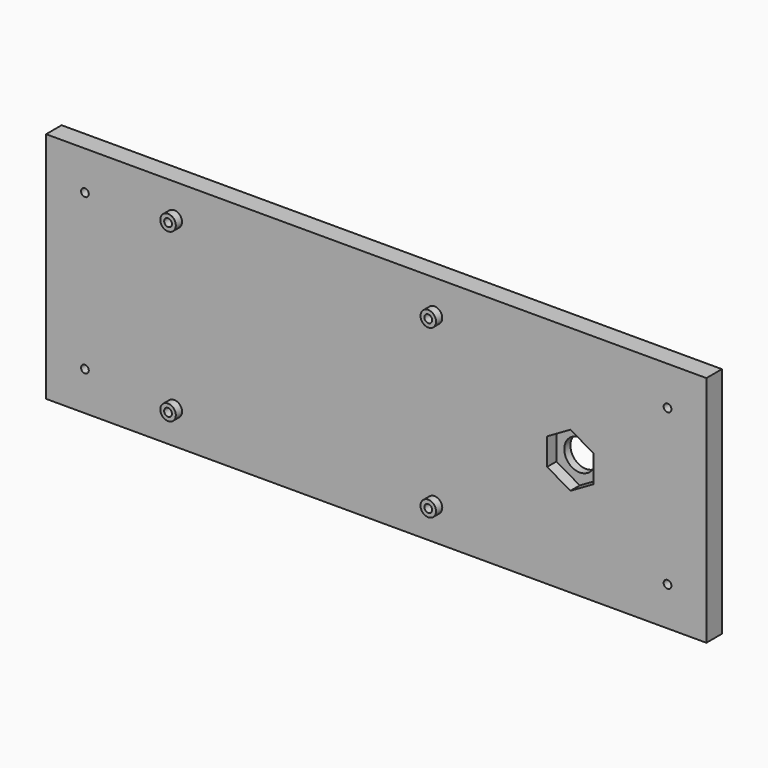
from build123d import *

# Parameters (mm, degrees)
F0_R      = 1
F0_R_2    = 2
F0_R_3    = 4
F1_DEPTH  = 5
F2_DEPTH  = 7
F3_DEPTH  = 6.604
F4_R      = 1
F5_DEPTH  = 5
F6_R      = 1
F7_DEPTH  = 5
F8_R      = 1
F9_DEPTH  = 5
F10_R     = 1
F11_DEPTH = 5
F13_DEPTH = 3


with BuildPart() as f1:
    # F0 (on Front) → F1 (new body)
    with BuildSketch(Plane.XZ):
        Polygon((-75.6474129446, -7.9146586359), (-75.6474129446, -37.9146586359), (94.3547870554, -37.9146586359), (94.3547870554, 22.0853413641), (59.3547870554, 22.0853413641), (24.3525870554, 22.0853413641), (-75.6474129446, 22.0853413641), align=None)
        with Locations((-65.6474129446, -27.9146586359)):
            Circle(F0_R, mode=Mode.SUBTRACT)
        with Locations((-42.6474129446, -29.4146586359)):
            Circle(F0_R_2, mode=Mode.SUBTRACT)
        with Locations((24.3525870554, -29.4146586359)):
            Circle(F0_R_2, mode=Mode.SUBTRACT)
        with Locations((84.3547870554, -27.9146586359)):
            Circle(F0_R, mode=Mode.SUBTRACT)
        Polygon((59.3547870554, -0.9864554056), (65.3547870554, -4.4505570207), (65.3547870554, -11.378760251), (59.3547870554, -14.8428618661), (53.3547870554, -11.378760251), (53.3547870554, -4.4505570207), align=None, mode=Mode.SUBTRACT)
        with Locations((-65.6474129446, 12.0853413641)):
            Circle(F0_R, mode=Mode.SUBTRACT)
        with Locations((-42.6474129446, 13.5853413641)):
            Circle(F0_R_2, mode=Mode.SUBTRACT)
        with Locations((24.3525870554, 13.5853413641)):
            Circle(F0_R_2, mode=Mode.SUBTRACT)
        with Locations((84.3547870554, 12.0853413641)):
            Circle(F0_R, mode=Mode.SUBTRACT)
        Polygon((65.3547870554, -11.378760251), (65.3547870554, -4.4505570207), (59.3547870554, -0.9864554056), (53.3547870554, -4.4505570207), (53.3547870554, -11.378760251), (59.3547870554, -14.8428618661), align=None)
        with Locations((59.3547870554, -7.9146586359)):
            Circle(F0_R_3, mode=Mode.SUBTRACT)
        with Locations((24.3525870554, -29.4146586359)):
            Circle(F0_R_2)
        with Locations((24.3525870554, -29.4146586359)):
            Circle(F0_R, mode=Mode.SUBTRACT)
        with Locations((-42.6474129446, -29.4146586359)):
            Circle(F0_R_2)
        with Locations((-42.6474129446, -29.4146586359)):
            Circle(F0_R, mode=Mode.SUBTRACT)
        with Locations((-42.6474129446, 13.5853413641)):
            Circle(F0_R_2)
        with Locations((-42.6474129446, 13.5853413641)):
            Circle(F0_R, mode=Mode.SUBTRACT)
        with Locations((24.3525870554, 13.5853413641)):
            Circle(F0_R_2)
        with Locations((24.3525870554, 13.5853413641)):
            Circle(F0_R, mode=Mode.SUBTRACT)
        with Locations((24.3525870554, -29.4146586359)):
            Circle(F0_R)
        with Locations((-42.6474129446, -29.4146586359)):
            Circle(F0_R)
        with Locations((-42.6474129446, 13.5853413641)):
            Circle(F0_R)
        with Locations((24.3525870554, 13.5853413641)):
            Circle(F0_R)
    extrude(amount=F1_DEPTH)

    # F0 (on Front) → F2 (join)
    with BuildSketch(Plane.XZ):
        with Locations((-42.6474129446, 13.5853413641)):
            Circle(F0_R_2)
        with Locations((-42.6474129446, 13.5853413641)):
            Circle(F0_R, mode=Mode.SUBTRACT)
        with Locations((-42.6474129446, -29.4146586359)):
            Circle(F0_R_2)
        with Locations((-42.6474129446, -29.4146586359)):
            Circle(F0_R, mode=Mode.SUBTRACT)
        with Locations((24.3525870554, -29.4146586359)):
            Circle(F0_R_2)
        with Locations((24.3525870554, -29.4146586359)):
            Circle(F0_R, mode=Mode.SUBTRACT)
        with Locations((24.3525870554, 13.5853413641)):
            Circle(F0_R_2)
        with Locations((24.3525870554, 13.5853413641)):
            Circle(F0_R, mode=Mode.SUBTRACT)
        with Locations((-42.6474129446, -29.4146586359)):
            Circle(F0_R)
        with Locations((-42.6474129446, 13.5853413641)):
            Circle(F0_R)
        with Locations((24.3525870554, 13.5853413641)):
            Circle(F0_R)
        with Locations((24.3525870554, -29.4146586359)):
            Circle(F0_R)
    extrude(amount=F2_DEPTH)

    # F0 (on Front) → F3 (join)
    with BuildSketch(Plane.XZ):
        with Locations((-42.6474129446, 13.5853413641)):
            Circle(F0_R)
        with Locations((24.3525870554, 13.5853413641)):
            Circle(F0_R)
        with Locations((-42.6474129446, -29.4146586359)):
            Circle(F0_R)
    extrude(amount=F3_DEPTH)

    # F4 (on face) → F5 (cut)
    with BuildSketch(Plane.XZ.offset(7)):
        with Locations((-42.6474129446, 13.5853413641)):
            Circle(F4_R)
    extrude(amount=-F5_DEPTH, mode=Mode.SUBTRACT)

    # F6 (on face) → F7 (cut)
    with BuildSketch(Plane.XZ.offset(7)):
        with Locations((24.3525870554, 13.5853413641)):
            Circle(F6_R)
    extrude(amount=-F7_DEPTH, mode=Mode.SUBTRACT)

    # F8 (on face) → F9 (cut)
    with BuildSketch(Plane.XZ.offset(7)):
        with Locations((-42.6474129446, -29.4146586359)):
            Circle(F8_R)
    extrude(amount=-F9_DEPTH, mode=Mode.SUBTRACT)

    # F10 (on face) → F11 (cut)
    with BuildSketch(Plane.XZ.offset(7)):
        with Locations((24.3525870554, -29.4146586359)):
            Circle(F10_R)
    extrude(amount=-F11_DEPTH, mode=Mode.SUBTRACT)

    # F12 (on face) → F13 (cut)
    with BuildSketch(Plane.XZ.offset(5)):
        Polygon((65.3547870554, -11.378760251), (65.3547870554, -4.4505570207), (59.3547870554, -0.9864554056), (53.3547870554, -4.4505570207), (53.3547870554, -11.378760251), (59.3547870554, -14.8428618661), align=None)
    extrude(amount=-F13_DEPTH, mode=Mode.SUBTRACT)


solid = f1.part
